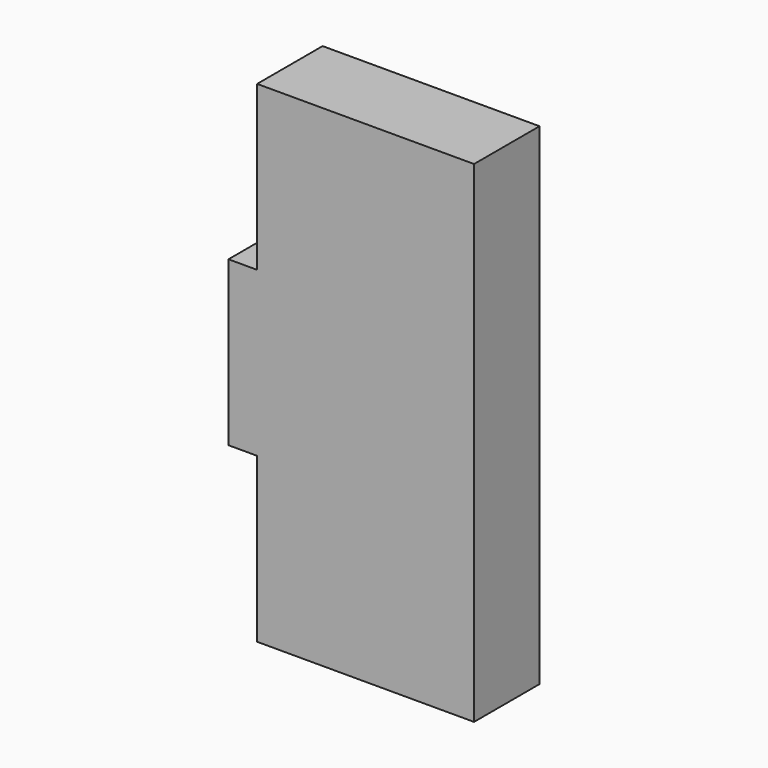
from build123d import *

# Parameters (mm, degrees)
F1_DEPTH = 25.4
F3_DEPTH = 101.601


with BuildPart() as f1:
    # F0 (on Front) → F1 (new body)
    with BuildSketch(Plane.XZ):
        Polygon((0, 25.4), (0, 0), (0, -25.4), (8.89, -25.4), (8.89, -76.2), (76.2, -76.2), (76.2, 76.2), (8.89, 76.2), (8.89, 25.4), align=None)
    extrude(amount=F1_DEPTH)

    # F2 (on face) → F3 (cut, through all)
    with BuildSketch(Plane.XY.offset(25.4)):
        with BuildLine():
            ThreePointArc((8.255, -12.7), (7.139077, -10.005923), (4.445, -8.89))
            ThreePointArc((4.445, -8.89), (1.750923, -15.394077), (8.255, -12.7))
        make_face()
    extrude(amount=-F3_DEPTH, mode=Mode.SUBTRACT)


solid = f1.part
